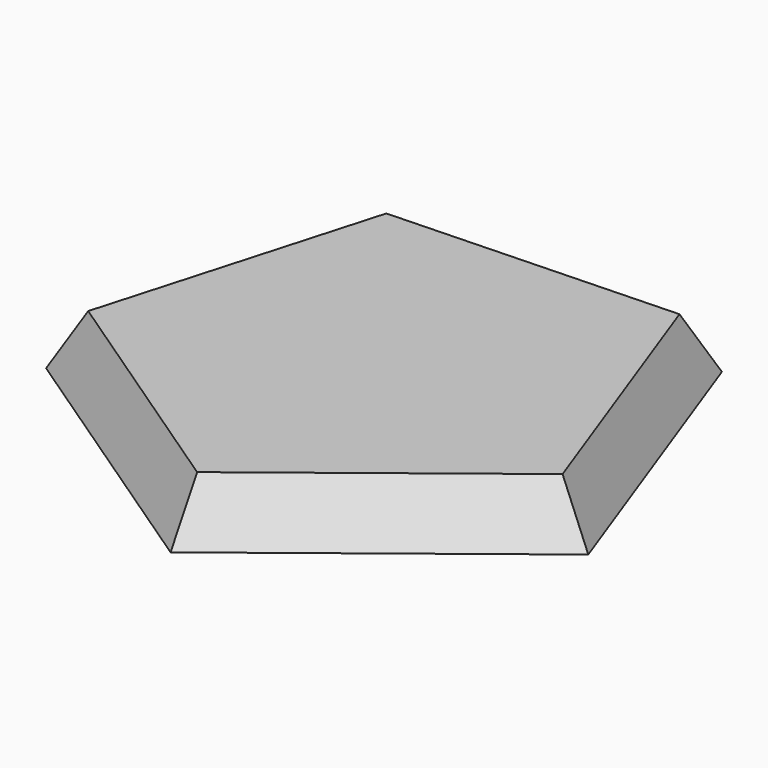
from build123d import *


with BuildPart() as f3:
    # F2 (on offset) → F3 section 0
    with BuildSketch(Plane.XY.offset(12.7)):
        Polygon((-33.821593, 43.289665), (-51.622365, -18.789004), (1.917217, -54.901909), (52.807271, -15.142241), (30.719471, 45.543489), align=None)
    # F0 (on Top) → F3 section 1
    with BuildSketch(Plane.XY):
        Polygon((35.112982, 52.057137), (-38.658771, 49.480971), (-59.005417, -21.476215), (2.191418, -62.754002), (60.359788, -17.307891), align=None)
    loft()


solid = f3.part
